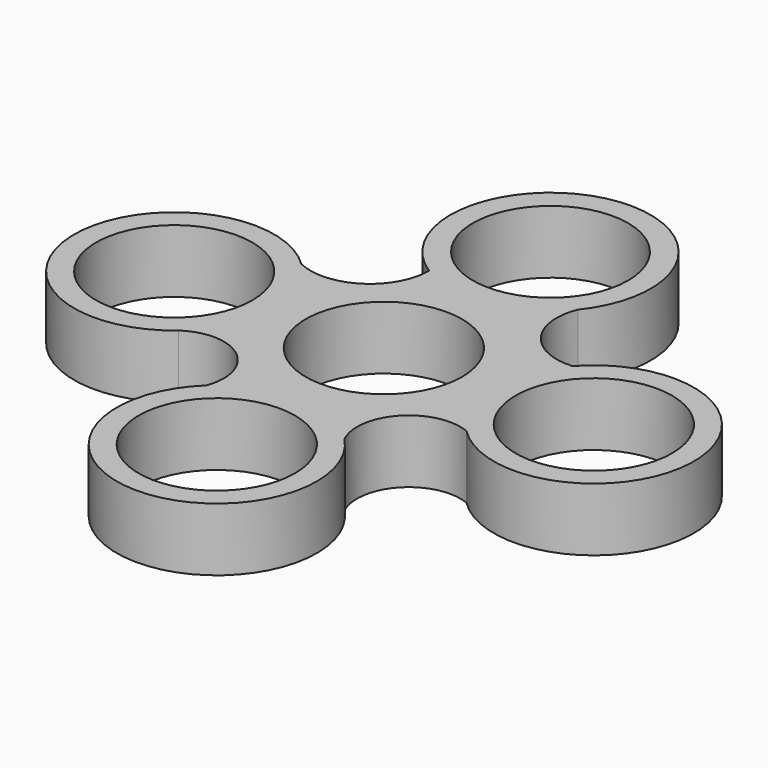
from build123d import *

# Parameters (mm, degrees)
F0_R     = 10.9982
F0_R_2   = 10.922
F1_DEPTH = 8.89


with BuildPart() as f1:
    # F0 (on Top) → F1 (new body)
    with BuildSketch(Plane.XY):
        with BuildLine():
            ThreePointArc((18.870345, 9.586456), (11.842484, 12.792023), (10.961791, 20.466062))
            ThreePointArc((10.961791, 20.466062), (-2.263714, 43.184317), (-7.591996, 17.442473))
            ThreePointArc((-7.591996, 17.442473), (-11.503666, 10.396557), (-19.549509, 9.937741))
            ThreePointArc((-19.549509, 9.937741), (-43.426643, 0.295161), (-20.204101, -10.831852))
            ThreePointArc((-20.204101, -10.831852), (-11.883787, -11.109617), (-9.662519, -19.132754))
            ThreePointArc((-9.662519, -19.132754), (-0.333026, -43.430059), (10.135759, -19.601442))
            ThreePointArc((10.135759, -19.601442), (11.387455, -11.487725), (19.408644, -9.73853))
            ThreePointArc((19.408644, -9.73853), (43.427802, 0.600515), (18.870345, 9.586456))
        make_face()
        with Locations((-29.362026, -0.148111)):
            Circle(F0_R, mode=Mode.SUBTRACT)
        with Locations((0, -29.3624)):
            Circle(F0_R, mode=Mode.SUBTRACT)
        Circle(F0_R, mode=Mode.SUBTRACT)
        with Locations((29.361658, 0.208702)):
            Circle(F0_R, mode=Mode.SUBTRACT)
        with Locations((0, 29.293383)):
            Circle(F0_R_2, mode=Mode.SUBTRACT)
    extrude(amount=F1_DEPTH)


solid = f1.part
